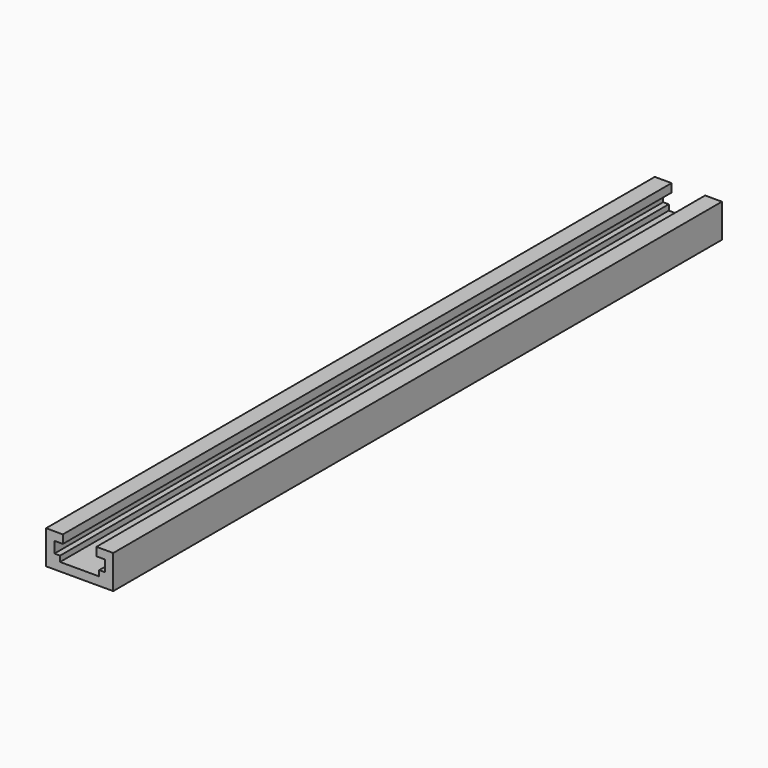
from build123d import *

# Parameters (mm, degrees)
SKETCH_W        = 19.05
SKETCH_H        = 9.525
PAD_DEPTH       = 215.9
SKETCH001_W     = 9.525
SKETCH001_H     = 2.38125
POCKET_DEPTH    = 215.901
SKETCH002_W     = 14.2875
SKETCH002_H     = 3.175
POCKET001_DEPTH = 215.901
SKETCH003_W     = 11.1125
SKETCH003_H     = 1.5875
POCKET002_DEPTH = 215.901


with BuildPart() as part:
    # Sketch → Pad (new body)
    with BuildSketch(Plane.XZ):
        Rectangle(SKETCH_W, SKETCH_H)
    extrude(amount=PAD_DEPTH)

    # Sketch001 (on Face6 of Pad) → Pocket (cut, through all)
    with BuildSketch(Plane.XZ.offset(215.9)):
        with Locations((0, 3.571875)):
            Rectangle(SKETCH001_W, SKETCH001_H)
    extrude(amount=-POCKET_DEPTH, mode=Mode.SUBTRACT)

    # Sketch002 (on Face5 of Pocket) → Pocket001 (cut, through all)
    with BuildSketch(Plane.XZ.offset(215.9)):
        with Locations((0, 0.79375)):
            Rectangle(SKETCH002_W, SKETCH002_H)
    extrude(amount=-POCKET001_DEPTH, mode=Mode.SUBTRACT)

    # Sketch003 (on Face5 of Pocket001) → Pocket002 (cut, through all)
    with BuildSketch(Plane.XZ.offset(215.9)):
        with Locations((0, -1.5875)):
            Rectangle(SKETCH003_W, SKETCH003_H)
    extrude(amount=-POCKET002_DEPTH, mode=Mode.SUBTRACT)


solid = part.part
